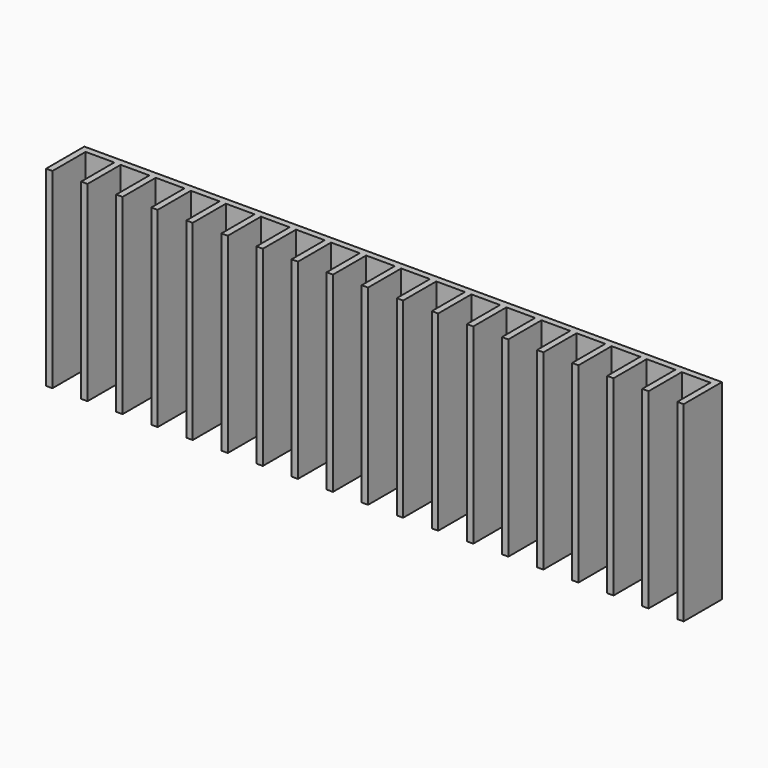
from build123d import *

# Parameters (mm, degrees)
BOX054_W     = 9
BOX054_H     = 13
BOX054_DEPTH = 60
BOX042_W     = 9
BOX042_H     = 13
BOX042_DEPTH = 60
BOX043_W     = 9
BOX043_H     = 13
BOX043_DEPTH = 60
BOX044_W     = 9
BOX044_H     = 13
BOX044_DEPTH = 60
BOX045_W     = 9
BOX045_H     = 13
BOX045_DEPTH = 60
BOX046_W     = 9
BOX046_H     = 13
BOX046_DEPTH = 60
BOX047_W     = 9
BOX047_H     = 13
BOX047_DEPTH = 60
BOX048_W     = 9
BOX048_H     = 13
BOX048_DEPTH = 60
BOX049_W     = 9
BOX049_H     = 13
BOX049_DEPTH = 60
BOX050_W     = 9
BOX050_H     = 13
BOX050_DEPTH = 60
BOX051_W     = 9
BOX051_H     = 13
BOX051_DEPTH = 60
BOX052_W     = 9
BOX052_H     = 13
BOX052_DEPTH = 60
BOX053_W     = 9
BOX053_H     = 13
BOX053_DEPTH = 60
BOX055_W     = 9
BOX055_H     = 13
BOX055_DEPTH = 60
BOX056_W     = 9
BOX056_H     = 13
BOX056_DEPTH = 60
BOX057_W     = 9
BOX057_H     = 13
BOX057_DEPTH = 60
BOX058_W     = 9
BOX058_H     = 13
BOX058_DEPTH = 60
BOX041_W     = 9
BOX041_H     = 13
BOX041_DEPTH = 60
BOX040_W     = 200
BOX040_H     = 15
BOX040_DEPTH = 60


with BuildPart() as cube054:
    # Box054 → Box054 (new body)
    with BuildSketch(Plane(origin=(145, -15, 0), x_dir=(1, 0, 0), z_dir=(0, 0, 1))):
        with Locations((4.5, 6.5)):
            Rectangle(BOX054_W, BOX054_H)
    extrude(amount=BOX054_DEPTH)


with BuildPart() as cube042:
    # Box042 → Box042 (new body)
    with BuildSketch(Plane(origin=(13, -15, 0), x_dir=(1, 0, 0), z_dir=(0, 0, 1))):
        with Locations((4.5, 6.5)):
            Rectangle(BOX042_W, BOX042_H)
    extrude(amount=BOX042_DEPTH)


with BuildPart() as cube043:
    # Box043 → Box043 (new body)
    with BuildSketch(Plane(origin=(24, -15, 0), x_dir=(1, 0, 0), z_dir=(0, 0, 1))):
        with Locations((4.5, 6.5)):
            Rectangle(BOX043_W, BOX043_H)
    extrude(amount=BOX043_DEPTH)


with BuildPart() as cube044:
    # Box044 → Box044 (new body)
    with BuildSketch(Plane(origin=(35, -15, 0), x_dir=(1, 0, 0), z_dir=(0, 0, 1))):
        with Locations((4.5, 6.5)):
            Rectangle(BOX044_W, BOX044_H)
    extrude(amount=BOX044_DEPTH)


with BuildPart() as cube045:
    # Box045 → Box045 (new body)
    with BuildSketch(Plane(origin=(46, -15, 0), x_dir=(1, 0, 0), z_dir=(0, 0, 1))):
        with Locations((4.5, 6.5)):
            Rectangle(BOX045_W, BOX045_H)
    extrude(amount=BOX045_DEPTH)


with BuildPart() as cube046:
    # Box046 → Box046 (new body)
    with BuildSketch(Plane(origin=(57, -15, 0), x_dir=(1, 0, 0), z_dir=(0, 0, 1))):
        with Locations((4.5, 6.5)):
            Rectangle(BOX046_W, BOX046_H)
    extrude(amount=BOX046_DEPTH)


with BuildPart() as cube047:
    # Box047 → Box047 (new body)
    with BuildSketch(Plane(origin=(68, -15, 0), x_dir=(1, 0, 0), z_dir=(0, 0, 1))):
        with Locations((4.5, 6.5)):
            Rectangle(BOX047_W, BOX047_H)
    extrude(amount=BOX047_DEPTH)


with BuildPart() as cube048:
    # Box048 → Box048 (new body)
    with BuildSketch(Plane(origin=(79, -15, 0), x_dir=(1, 0, 0), z_dir=(0, 0, 1))):
        with Locations((4.5, 6.5)):
            Rectangle(BOX048_W, BOX048_H)
    extrude(amount=BOX048_DEPTH)


with BuildPart() as cube049:
    # Box049 → Box049 (new body)
    with BuildSketch(Plane(origin=(90, -15, 0), x_dir=(1, 0, 0), z_dir=(0, 0, 1))):
        with Locations((4.5, 6.5)):
            Rectangle(BOX049_W, BOX049_H)
    extrude(amount=BOX049_DEPTH)


with BuildPart() as cube050:
    # Box050 → Box050 (new body)
    with BuildSketch(Plane(origin=(101, -15, 0), x_dir=(1, 0, 0), z_dir=(0, 0, 1))):
        with Locations((4.5, 6.5)):
            Rectangle(BOX050_W, BOX050_H)
    extrude(amount=BOX050_DEPTH)


with BuildPart() as cube051:
    # Box051 → Box051 (new body)
    with BuildSketch(Plane(origin=(112, -15, 0), x_dir=(1, 0, 0), z_dir=(0, 0, 1))):
        with Locations((4.5, 6.5)):
            Rectangle(BOX051_W, BOX051_H)
    extrude(amount=BOX051_DEPTH)


with BuildPart() as cube052:
    # Box052 → Box052 (new body)
    with BuildSketch(Plane(origin=(123, -15, 0), x_dir=(1, 0, 0), z_dir=(0, 0, 1))):
        with Locations((4.5, 6.5)):
            Rectangle(BOX052_W, BOX052_H)
    extrude(amount=BOX052_DEPTH)


with BuildPart() as cube053:
    # Box053 → Box053 (new body)
    with BuildSketch(Plane(origin=(134, -15, 0), x_dir=(1, 0, 0), z_dir=(0, 0, 1))):
        with Locations((4.5, 6.5)):
            Rectangle(BOX053_W, BOX053_H)
    extrude(amount=BOX053_DEPTH)


with BuildPart() as cube055:
    # Box055 → Box055 (new body)
    with BuildSketch(Plane(origin=(156, -15, 0), x_dir=(1, 0, 0), z_dir=(0, 0, 1))):
        with Locations((4.5, 6.5)):
            Rectangle(BOX055_W, BOX055_H)
    extrude(amount=BOX055_DEPTH)


with BuildPart() as cube056:
    # Box056 → Box056 (new body)
    with BuildSketch(Plane(origin=(167, -15, 0), x_dir=(1, 0, 0), z_dir=(0, 0, 1))):
        with Locations((4.5, 6.5)):
            Rectangle(BOX056_W, BOX056_H)
    extrude(amount=BOX056_DEPTH)


with BuildPart() as cube057:
    # Box057 → Box057 (new body)
    with BuildSketch(Plane(origin=(178, -15, 0), x_dir=(1, 0, 0), z_dir=(0, 0, 1))):
        with Locations((4.5, 6.5)):
            Rectangle(BOX057_W, BOX057_H)
    extrude(amount=BOX057_DEPTH)


with BuildPart() as cube058:
    # Box058 → Box058 (new body)
    with BuildSketch(Plane(origin=(189, -15, 0), x_dir=(1, 0, 0), z_dir=(0, 0, 1))):
        with Locations((4.5, 6.5)):
            Rectangle(BOX058_W, BOX058_H)
    extrude(amount=BOX058_DEPTH)


with BuildPart() as compound002:
    # Box041 → Box041 (new body)
    with BuildSketch(Plane(origin=(2, -15, 0), x_dir=(1, 0, 0), z_dir=(0, 0, 1))):
        with Locations((4.5, 6.5)):
            Rectangle(BOX041_W, BOX041_H)
    extrude(amount=BOX041_DEPTH)

    # Compound002: union Cube054, Cube042, Cube043, Cube044, Cube045, Cube046, Cube047, Cube048, Cube049, Cube050, Cube051, Cube052, Cube053, Cube055, Cube056, Cube057, Cube058
    add(cube054.part)
    add(cube042.part)
    add(cube043.part)
    add(cube044.part)
    add(cube045.part)
    add(cube046.part)
    add(cube047.part)
    add(cube048.part)
    add(cube049.part)
    add(cube050.part)
    add(cube051.part)
    add(cube052.part)
    add(cube053.part)
    add(cube055.part)
    add(cube056.part)
    add(cube057.part)
    add(cube058.part)


with BuildPart() as cut003:
    # Box040 → Box040 (new body)
    with BuildSketch(Plane(origin=(0, -15, 0), x_dir=(1, 0, 0), z_dir=(0, 0, 1))):
        with Locations((100, 7.5)):
            Rectangle(BOX040_W, BOX040_H)
    extrude(amount=BOX040_DEPTH)

    # Cut003: cut Compound002
    add(compound002.part, mode=Mode.SUBTRACT)


solid = cut003.part
